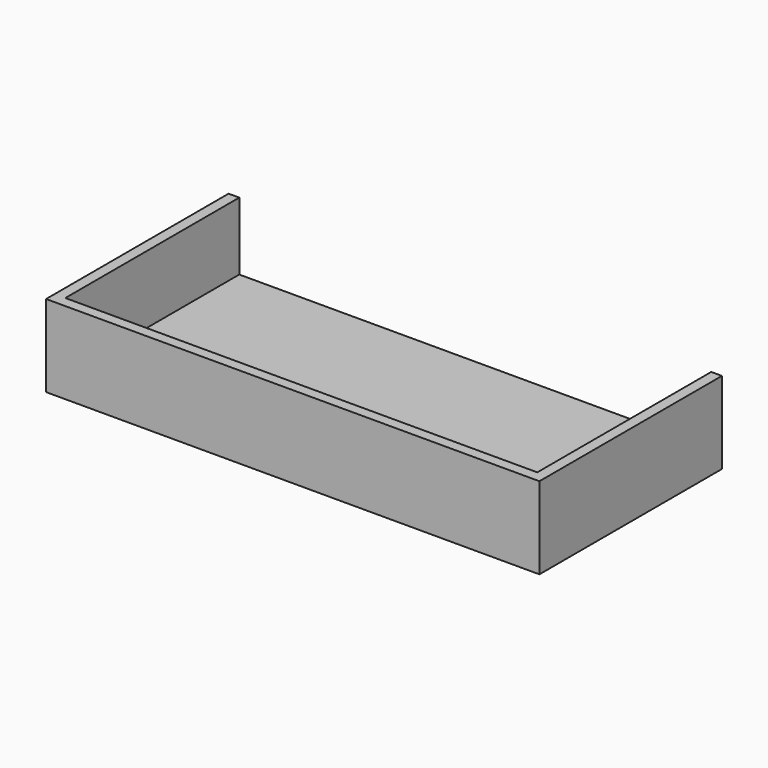
from build123d import *

# Parameters (mm, degrees)
F0_W     = 69.2
F0_H     = 32
F1_DEPTH = 2
F3_DEPTH = 9.5
F4_W     = 66.2
F4_H     = 1.5
F5_DEPTH = 9.5


with BuildPart() as f1:
    # F0 (on Top) → F1 (new body)
    with BuildSketch(Plane.XY):
        with Locations((34.6, 16)):
            Rectangle(F0_W, F0_H)
    extrude(amount=F1_DEPTH)

    # F2 (on face) → F3 (join)
    with BuildSketch(Plane.XY.offset(2)):
        Polygon((3.5, 32), (0, 32), (0, 0), (69.2, 0), (69.2, 32), (65.7, 32), (65.7, 30.5), (67.7, 30.5), (67.7, 1.5), (1.5, 1.5), (1.5, 30.5), (3.5, 30.5), align=None)
    extrude(amount=F3_DEPTH)

    # F4 (on face) → F5 (cut)
    with BuildSketch(Plane.XY.offset(11.5)):
        with Locations((34.6, 31.25)):
            Rectangle(F4_W, F4_H)
    extrude(amount=-F5_DEPTH, mode=Mode.SUBTRACT)


solid = f1.part
